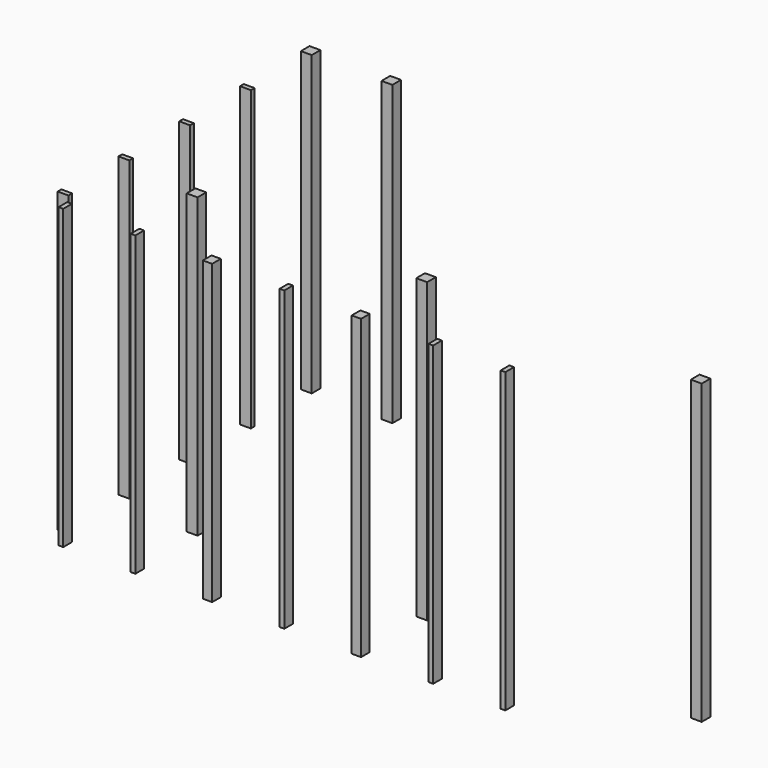
from build123d import *

# Parameters (mm, degrees)
F1_DEPTH = 2438.4
F2_DEPTH = 2438.4


with BuildPart() as f1:
    # F0 (on Top) → F1 (new body)
    with BuildSketch(Plane.XY):
        Polygon((44.45, -44.45), (88.9, 0), (0, 0), align=None)
        Polygon((44.45, -44.45), (0, 0), (0, -88.9), align=None)
        Polygon((0, -88.9), (88.9, -88.9), (44.45, -44.45), align=None)
        Polygon((88.9, -88.9), (88.9, 0), (44.45, -44.45), align=None)
    extrude(amount=F1_DEPTH)


with BuildPart() as f1b:
    # F0 (on Top) → F1, piece 2 (new body)
    with BuildSketch(Plane.XY):
        Polygon((704.85, -44.45), (749.3, 0), (660.4, 0), align=None)
        Polygon((660.4, 0), (660.4, -88.9), (704.85, -44.45), align=None)
        Polygon((660.4, -88.9), (749.3, -88.9), (704.85, -44.45), align=None)
        Polygon((704.85, -44.45), (749.3, -88.9), (749.3, 0), align=None)
    extrude(amount=F1_DEPTH)


with BuildPart() as f1c:
    # F0 (on Top) → F1, piece 3 (new body)
    with BuildSketch(Plane.XY):
        Polygon((704.85, -2038.35), (749.3, -1993.9), (660.4, -1993.9), align=None)
        Polygon((660.4, -1993.9), (660.4, -2082.8), (704.85, -2038.35), align=None)
        Polygon((660.4, -2082.8), (749.3, -2082.8), (704.85, -2038.35), align=None)
        Polygon((704.85, -2038.35), (749.3, -2082.8), (749.3, -1993.9), align=None)
    extrude(amount=F1_DEPTH)


with BuildPart() as f1d:
    # F0 (on Top) → F1, piece 4 (new body)
    with BuildSketch(Plane.XY):
        Polygon((2540, -1993.9), (2540, -2082.8), (2584.45, -2038.35), align=None)
        Polygon((2628.9, -1993.9), (2540, -1993.9), (2584.45, -2038.35), align=None)
        Polygon((2584.45, -2038.35), (2628.9, -2082.8), (2628.9, -1993.9), align=None)
        Polygon((2584.45, -2038.35), (2540, -2082.8), (2628.9, -2082.8), align=None)
    extrude(amount=F1_DEPTH)


with BuildPart() as f1e:
    # F0 (on Top) → F1, piece 5 (new body)
    with BuildSketch(Plane.XY):
        Polygon((4832.35, -2038.35), (4787.9, -1993.9), (4787.9, -2082.8), align=None)
        Polygon((4876.8, -1993.9), (4787.9, -1993.9), (4832.35, -2038.35), align=None)
        Polygon((4876.8, -2082.8), (4876.8, -1993.9), (4832.35, -2038.35), align=None)
        Polygon((4832.35, -2038.35), (4787.9, -2082.8), (4876.8, -2082.8), align=None)
    extrude(amount=F1_DEPTH)


with BuildPart() as f2:
    # F0 (on Top) → F2 (new body)
    with BuildSketch(Plane.XY):
        Polygon((3778.25, -2698.75), (3759.2, -2654.3), (3759.2, -2743.2), align=None)
        Polygon((3778.25, -2698.75), (3797.3, -2654.3), (3759.2, -2654.3), align=None)
        Polygon((3797.3, -2743.2), (3778.25, -2698.75), (3759.2, -2743.2), align=None)
        Polygon((3797.3, -2743.2), (3797.3, -2654.3), (3778.25, -2698.75), align=None)
    extrude(amount=F2_DEPTH)


with BuildPart() as f2b:
    # F0 (on Top) → F2, piece 2 (new body)
    with BuildSketch(Plane.XY):
        Polygon((3206.75, -2654.3), (3168.65, -2654.3), (3187.7, -2698.75), align=None)
        Polygon((3187.7, -2698.75), (3168.65, -2654.3), (3168.65, -2743.2), align=None)
        Polygon((3206.75, -2743.2), (3187.7, -2698.75), (3168.65, -2743.2), align=None)
        Polygon((3206.75, -2654.3), (3187.7, -2698.75), (3206.75, -2743.2), align=None)
    extrude(amount=F2_DEPTH)


with BuildPart() as f2c:
    # F0 (on Top) → F2, piece 3 (new body)
    with BuildSketch(Plane.XY):
        Polygon((2559.05, -2698.75), (2540, -2654.3), (2540, -2743.2), align=None)
        Polygon((2559.05, -2698.75), (2578.1, -2654.3), (2540, -2654.3), align=None)
        Polygon((2616.2, -2654.3), (2578.1, -2654.3), (2597.15, -2698.75), align=None)
        Polygon((2616.2, -2743.2), (2616.2, -2654.3), (2597.15, -2698.75), align=None)
        Polygon((2597.15, -2698.75), (2578.1, -2743.2), (2616.2, -2743.2), align=None)
        Polygon((2578.1, -2743.2), (2559.05, -2698.75), (2540, -2743.2), align=None)
        Polygon((2597.15, -2698.75), (2578.1, -2654.3), (2578.1, -2743.2), align=None)
        Polygon((2578.1, -2743.2), (2578.1, -2654.3), (2559.05, -2698.75), align=None)
    extrude(amount=F2_DEPTH)


with BuildPart() as f2d:
    # F0 (on Top) → F2, piece 4 (new body)
    with BuildSketch(Plane.XY):
        Polygon((1987.55, -2654.3), (1949.45, -2654.3), (1968.5, -2698.75), align=None)
        Polygon((1987.55, -2654.3), (1968.5, -2698.75), (1987.55, -2743.2), align=None)
        Polygon((1968.5, -2698.75), (1949.45, -2654.3), (1949.45, -2743.2), align=None)
        Polygon((1987.55, -2743.2), (1968.5, -2698.75), (1949.45, -2743.2), align=None)
    extrude(amount=F2_DEPTH)


with BuildPart() as f2e:
    # F0 (on Top) → F2, piece 5 (new body)
    with BuildSketch(Plane.XY):
        Polygon((1397, -2654.3), (1358.9, -2654.3), (1377.95, -2698.75), align=None)
        Polygon((1358.9, -2654.3), (1320.8, -2654.3), (1339.85, -2698.75), align=None)
        Polygon((1339.85, -2698.75), (1320.8, -2654.3), (1320.8, -2743.2), align=None)
        Polygon((1358.9, -2743.2), (1358.9, -2654.3), (1339.85, -2698.75), align=None)
        Polygon((1377.95, -2698.75), (1358.9, -2654.3), (1358.9, -2743.2), align=None)
        Polygon((1397, -2743.2), (1397, -2654.3), (1377.95, -2698.75), align=None)
        Polygon((1377.95, -2698.75), (1358.9, -2743.2), (1397, -2743.2), align=None)
        Polygon((1339.85, -2698.75), (1320.8, -2743.2), (1358.9, -2743.2), align=None)
    extrude(amount=F2_DEPTH)


with BuildPart() as f2f:
    # F0 (on Top) → F2, piece 6 (new body)
    with BuildSketch(Plane.XY):
        Polygon((768.35, -2654.3), (730.25, -2654.3), (749.3, -2698.75), align=None)
        Polygon((768.35, -2743.2), (768.35, -2654.3), (749.3, -2698.75), align=None)
        Polygon((749.3, -2698.75), (730.25, -2654.3), (730.25, -2743.2), align=None)
        Polygon((749.3, -2698.75), (730.25, -2743.2), (768.35, -2743.2), align=None)
    extrude(amount=F2_DEPTH)


with BuildPart() as f2g:
    # F0 (on Top) → F2, piece 7 (new body)
    with BuildSketch(Plane.XY):
        Polygon((177.8, -2654.3), (139.7, -2654.3), (158.75, -2698.75), align=None)
        Polygon((158.75, -2698.75), (139.7, -2654.3), (139.7, -2743.2), align=None)
        Polygon((158.75, -2698.75), (139.7, -2743.2), (177.8, -2743.2), align=None)
        Polygon((177.8, -2743.2), (177.8, -2654.3), (158.75, -2698.75), align=None)
    extrude(amount=F2_DEPTH)


with BuildPart() as f2h:
    # F0 (on Top) → F2, piece 8 (new body)
    with BuildSketch(Plane.XY):
        Polygon((44.45, -2559.05), (0, -2578.1), (88.9, -2578.1), align=None)
        Polygon((88.9, -2540), (0, -2540), (44.45, -2559.05), align=None)
        Polygon((88.9, -2578.1), (88.9, -2540), (44.45, -2559.05), align=None)
        Polygon((44.45, -2559.05), (0, -2540), (0, -2578.1), align=None)
    extrude(amount=F2_DEPTH)


with BuildPart() as f2i:
    # F0 (on Top) → F2, piece 9 (new body)
    with BuildSketch(Plane.XY):
        Polygon((44.45, -1936.75), (0, -1955.8), (88.9, -1955.8), align=None)
        Polygon((88.9, -1955.8), (88.9, -1917.7), (44.45, -1936.75), align=None)
        Polygon((44.45, -1936.75), (0, -1917.7), (0, -1955.8), align=None)
        Polygon((88.9, -1917.7), (0, -1917.7), (44.45, -1936.75), align=None)
    extrude(amount=F2_DEPTH)


with BuildPart() as f2j:
    # F0 (on Top) → F2, piece 10 (new body)
    with BuildSketch(Plane.XY):
        Polygon((44.45, -1314.45), (0, -1333.5), (88.9, -1333.5), align=None)
        Polygon((88.9, -1333.5), (88.9, -1295.4), (44.45, -1314.45), align=None)
        Polygon((44.45, -1314.45), (0, -1295.4), (0, -1333.5), align=None)
        Polygon((88.9, -1295.4), (0, -1295.4), (44.45, -1314.45), align=None)
    extrude(amount=F2_DEPTH)


with BuildPart() as f2k:
    # F0 (on Top) → F2, piece 11 (new body)
    with BuildSketch(Plane.XY):
        Polygon((88.9, -673.1), (0, -673.1), (44.45, -692.15), align=None)
        Polygon((44.45, -692.15), (0, -673.1), (0, -711.2), align=None)
        Polygon((88.9, -711.2), (88.9, -673.1), (44.45, -692.15), align=None)
        Polygon((44.45, -692.15), (0, -711.2), (88.9, -711.2), align=None)
    extrude(amount=F2_DEPTH)


solid = Compound([f1.part, f1b.part, f1c.part, f1d.part, f1e.part, f2.part, f2b.part, f2c.part, f2d.part, f2e.part, f2f.part, f2g.part, f2h.part, f2i.part, f2j.part, f2k.part])
